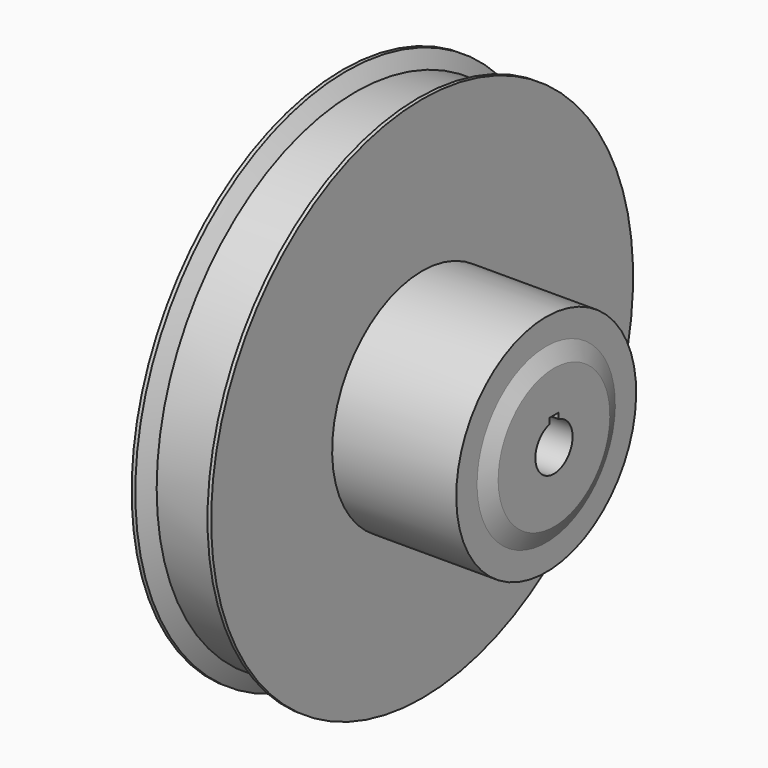
from build123d import *

# Parameters (mm, degrees)
F2_W     = 4.7625
F2_H     = 4.7625
F3_DEPTH = 86.51975


with BuildPart() as f1:
    # F0 (on Front) → F1 (revolve)
    with BuildSketch(Plane.XZ):
        Polygon((0, 107.95), (0, 9.525), (86.51875, 9.525), (86.51875, 28.575), (83.34375, 35.383809), (83.34375, 46.0375), (32.54375, 46.0375), (32.54375, 107.95), (31.050549, 107.95), (27.384375, 101.6), (5.159375, 101.6), (1.493201, 107.95), align=None)
    revolve(axis=Axis((43.259375, 0, 0), (1, 0, 0)))

    # F2 (on Right) → F3 (cut, through all)
    with BuildSketch(Plane.YZ):
        with Locations((0, 9.21385)):
            Rectangle(F2_W, F2_H)
    extrude(amount=F3_DEPTH, mode=Mode.SUBTRACT)


solid = f1.part
